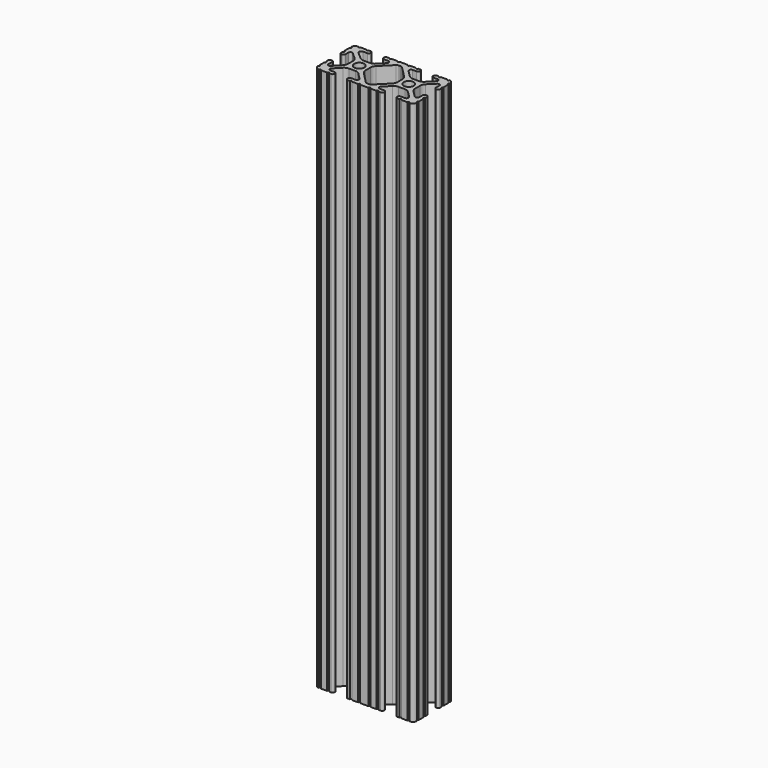
from build123d import *

# Parameters (mm, degrees)
SKETCH162_R   = 2.6035
EXTRUDE_DEPTH = 279.4


with BuildPart() as part:
    # Sketch162 → Extrude (new body)
    with BuildSketch(Plane.XY):
        with BuildLine():
            Line((8.41248, -10.4902), (6.283641, -10.4902))
            ThreePointArc((5.532577, -8.666072), (5.297292, -9.829633), (6.283641, -10.4902))
            Line((5.532577, -8.666072), (8.809985, -5.416263))
            ThreePointArc((11.045536, -4.4958), (9.836721, -4.73492), (8.809985, -5.416263))
            Line((11.045536, -4.4958), (14.354464, -4.4958))
            ThreePointArc((16.590015, -5.416263), (15.563279, -4.73492), (14.354464, -4.4958))
            Line((16.590015, -5.416263), (19.867423, -8.666072))
            ThreePointArc((19.116359, -10.4902), (20.102708, -9.829633), (19.867423, -8.666072))
            Line((19.116359, -10.4902), (16.98752, -10.4902))
            ThreePointArc((16.98752, -10.4902), (16.245751, -10.797451), (15.9385, -11.53922))
            Line((15.9385, -11.53922), (15.938501, -11.65105))
            ThreePointArc((15.938501, -11.65105), (16.245731, -12.39277), (16.98745, -12.7))
            Line((16.98745, -12.7), (18.017115, -12.7))
            ThreePointArc((19.033115, -12.7), (18.525115, -12.192), (18.017115, -12.7))
            Line((19.033115, -12.7), (22.2504, -12.7))
            ThreePointArc((23.2664, -12.699847), (22.758323, -12.192), (22.2504, -12.7))
            ThreePointArc((23.2664, -12.699847), (24.782523, -12.082523), (25.399847, -10.5664))
            ThreePointArc((25.4, -9.5504), (24.892, -10.058323), (25.399847, -10.5664))
            Line((25.4, -9.5504), (25.4, -6.333084))
            ThreePointArc((25.4, -5.317084), (24.892, -5.825084), (25.4, -6.333084))
            Line((25.4, -5.317084), (25.4, -4.23752))
            ThreePointArc((25.4, -4.23752), (25.107394, -3.531106), (24.40098, -3.2385))
            Line((24.40098, -3.2385), (24.239219, -3.2385))
            ThreePointArc((24.239219, -3.2385), (23.49745, -3.545751), (23.1902, -4.28752))
            Line((23.1902, -4.28752), (23.1902, -6.334741))
            ThreePointArc((21.434003, -7.066536), (22.556027, -7.286024), (23.1902, -6.334741))
            Line((21.434003, -7.066536), (18.147951, -3.808156))
            ThreePointArc((17.208502, -1.55362), (17.45276, -2.774838), (18.147951, -3.808156))
            Line((17.208502, -1.55362), (17.208502, 1.695179))
            ThreePointArc((18.140486, 3.94229), (17.450739, 2.911536), (17.208502, 1.695179))
            Line((18.140486, 3.94229), (21.43158, 7.227386))
            ThreePointArc((23.1902, 6.498002), (22.554449, 7.449941), (21.43158, 7.227386))
            Line((23.1902, 6.498002), (23.190199, 4.28752))
            ThreePointArc((23.190199, 4.28752), (23.49745, 3.545751), (24.23922, 3.2385))
            Line((24.23922, 3.2385), (24.350981, 3.2385))
            ThreePointArc((24.350981, 3.2385), (25.09275, 3.545751), (25.4, 4.28752))
            Line((25.4, 4.28752), (25.4, 5.317134))
            ThreePointArc((25.4, 6.333134), (24.892, 5.825134), (25.4, 5.317134))
            Line((25.4, 6.333134), (25.4, 9.5504))
            ThreePointArc((25.399847, 10.5664), (24.892, 10.058324), (25.4, 9.5504))
            ThreePointArc((25.399847, 10.5664), (24.782523, 12.082523), (23.2664, 12.699847))
            ThreePointArc((22.2504, 12.7), (22.758323, 12.192), (23.2664, 12.699847))
            Line((22.2504, 12.7), (19.03309, 12.7))
            ThreePointArc((18.01709, 12.7), (18.52509, 12.192), (19.03309, 12.7))
            Line((18.01709, 12.7), (16.98747, 12.7))
            ThreePointArc((16.98747, 12.7), (16.2457, 12.392749), (15.938449, 11.65098))
            Line((15.938449, 11.65098), (15.938449, 11.53922))
            ThreePointArc((15.938449, 11.53922), (16.2457, 10.797451), (16.987469, 10.4902))
            Line((16.987469, 10.4902), (19.116359, 10.4902))
            ThreePointArc((19.834124, 8.755125), (20.055198, 9.862578), (19.116359, 10.4902))
            Line((19.834124, 8.755125), (16.496607, 5.42369))
            ThreePointArc((14.253592, 4.4958), (15.467274, 4.736929), (16.496607, 5.42369))
            Line((14.253592, 4.4958), (11.146408, 4.4958))
            ThreePointArc((8.903392, 5.42369), (9.932726, 4.736929), (11.146408, 4.4958))
            Line((8.903392, 5.42369), (5.565875, 8.755125))
            ThreePointArc((6.283641, 10.4902), (5.344802, 9.862579), (5.565875, 8.755125))
            Line((6.283641, 10.4902), (8.412531, 10.4902))
            ThreePointArc((8.412531, 10.4902), (9.1543, 10.797451), (9.461551, 11.53922))
            Line((9.461551, 11.53922), (9.461551, 11.65098))
            ThreePointArc((9.461551, 11.65098), (9.1543, 12.392749), (8.412531, 12.7))
            Line((8.412531, 12.7), (7.382872, 12.7))
            ThreePointArc((6.366872, 12.7), (6.874872, 12.192), (7.382872, 12.7))
            Line((6.366872, 12.7), (3.149606, 12.7))
            ThreePointArc((2.133606, 12.7), (2.641606, 12.192), (3.149606, 12.7))
            Line((2.133606, 12.7), (-2.133606, 12.7))
            ThreePointArc((-3.149581, 12.7), (-2.641594, 12.192013), (-2.133606, 12.7))
            Line((-3.149581, 12.7), (-6.36691, 12.7))
            ThreePointArc((-7.38291, 12.7), (-6.87491, 12.192), (-6.36691, 12.7))
            Line((-7.38291, 12.7), (-8.412531, 12.7))
            ThreePointArc((-8.412531, 12.7), (-9.1543, 12.392749), (-9.461551, 11.65098))
            Line((-9.461551, 11.65098), (-9.461551, 11.53922))
            ThreePointArc((-9.461551, 11.53922), (-9.1543, 10.797451), (-8.412531, 10.4902))
            Line((-8.412531, 10.4902), (-6.289393, 10.4902))
            ThreePointArc((-5.480677, 8.535266), (-5.23159, 9.78305), (-6.289393, 10.4902))
            Line((-5.480677, 8.535266), (-8.597934, 5.42369))
            ThreePointArc((-10.840949, 4.4958), (-9.627267, 4.736929), (-8.597934, 5.42369))
            Line((-10.840949, 4.4958), (-14.102564, 4.4958))
            ThreePointArc((-16.187895, 5.276637), (-15.215928, 4.69741), (-14.102564, 4.4958))
            Line((-16.187895, 5.276637), (-19.868248, 8.482246))
            ThreePointArc((-19.116384, 10.4902), (-20.188436, 9.74688), (-19.868248, 8.482246))
            Line((-19.116384, 10.4902), (-16.987469, 10.4902))
            ThreePointArc((-16.987469, 10.4902), (-16.2457, 10.797451), (-15.938449, 11.53922))
            Line((-15.938449, 11.53922), (-15.938449, 11.65098))
            ThreePointArc((-15.938449, 11.65098), (-16.2457, 12.392749), (-16.987469, 12.7))
            Line((-16.987469, 12.7), (-18.017103, 12.7))
            ThreePointArc((-19.033103, 12.7), (-18.525103, 12.192), (-18.017103, 12.7))
            Line((-19.033103, 12.7), (-22.2504, 12.7))
            ThreePointArc((-23.2664, 12.699847), (-22.758323, 12.192), (-22.2504, 12.7))
            ThreePointArc((-23.2664, 12.699847), (-24.782523, 12.082523), (-25.399847, 10.5664))
            ThreePointArc((-25.4, 9.5504), (-24.892, 10.058323), (-25.399847, 10.5664))
            Line((-25.4, 9.5504), (-25.4, 6.333084))
            ThreePointArc((-25.4, 5.317084), (-24.892, 5.825084), (-25.4, 6.333084))
            Line((-25.4, 5.317084), (-25.4, 4.23752))
            ThreePointArc((-25.4, 4.23752), (-25.107394, 3.531106), (-24.40098, 3.2385))
            Line((-24.40098, 3.2385), (-24.18922, 3.2385))
            ThreePointArc((-24.18922, 3.2385), (-23.482806, 3.531106), (-23.1902, 4.23752))
            Line((-23.1902, 4.23752), (-23.1902, 6.155876))
            ThreePointArc((-21.583975, 6.886926), (-22.622327, 7.038259), (-23.1902, 6.155876))
            Line((-21.583975, 6.886926), (-18.298171, 4.024971))
            ThreePointArc((-17.208502, 1.630807), (-17.493731, 2.946045), (-18.298171, 4.024971))
            Line((-17.208502, 1.630807), (-17.208502, -1.630807))
            ThreePointArc((-18.109441, -3.846495), (-17.442348, -2.826734), (-17.208502, -1.630807))
            Line((-18.109441, -3.846495), (-21.526347, -7.35342))
            ThreePointArc((-23.1902, -6.676867), (-22.585896, -7.574939), (-21.526347, -7.35342))
            Line((-23.1902, -6.676867), (-23.1902, -4.23752))
            ThreePointArc((-23.1902, -4.23752), (-23.482806, -3.531106), (-24.18922, -3.2385))
            Line((-24.18922, -3.2385), (-24.400979, -3.2385))
            ThreePointArc((-24.400979, -3.2385), (-25.107394, -3.531106), (-25.4, -4.23752))
            Line((-25.4, -4.23752), (-25.4, -5.317084))
            ThreePointArc((-25.4, -6.333185), (-24.891949, -5.825134), (-25.4, -5.317084))
            Line((-25.4, -6.333185), (-25.4, -9.5504))
            ThreePointArc((-25.399847, -10.5664), (-24.892, -10.058323), (-25.4, -9.5504))
            ThreePointArc((-25.399847, -10.5664), (-24.782522, -12.082522), (-23.2664, -12.699847))
            ThreePointArc((-22.2504, -12.7), (-22.758323, -12.192), (-23.2664, -12.699847))
            Line((-22.2504, -12.7), (-19.033103, -12.7))
            ThreePointArc((-18.017103, -12.7), (-18.525103, -12.192), (-19.033103, -12.7))
            Line((-18.017103, -12.7), (-16.98745, -12.7))
            ThreePointArc((-16.98745, -12.7), (-16.24573, -12.39277), (-15.9385, -11.65105))
            Line((-15.9385, -11.65105), (-15.9385, -11.53922))
            ThreePointArc((-15.9385, -11.53922), (-16.245751, -10.797451), (-16.98752, -10.4902))
            Line((-16.98752, -10.4902), (-19.116384, -10.4902))
            ThreePointArc((-19.844087, -8.765172), (-20.052503, -9.869097), (-19.116384, -10.4902))
            Line((-19.844087, -8.765172), (-16.618993, -5.455112))
            ThreePointArc((-14.344933, -4.4958), (-15.578994, -4.745442), (-16.618993, -5.455112))
            Line((-14.344933, -4.4958), (-11.083318, -4.4958))
            ThreePointArc((-8.816955, -5.447239), (-9.854331, -4.743307), (-11.083318, -4.4958))
            Line((-8.816955, -5.447239), (-5.564154, -8.762653))
            ThreePointArc((-6.289393, -10.4902), (-5.352591, -9.867473), (-5.564154, -8.762653))
            Line((-6.289393, -10.4902), (-8.41248, -10.4902))
            ThreePointArc((-8.41248, -10.4902), (-9.154249, -10.797451), (-9.4615, -11.53922))
            Line((-9.4615, -11.53922), (-9.4615, -11.65105))
            ThreePointArc((-9.4615, -11.65105), (-9.154269, -12.39277), (-8.41255, -12.7))
            Line((-8.41255, -12.7), (-7.382885, -12.7))
            ThreePointArc((-6.366885, -12.7), (-6.874885, -12.192), (-7.382885, -12.7))
            Line((-6.366885, -12.7), (-3.149581, -12.7))
            ThreePointArc((-2.133581, -12.7), (-2.641581, -12.192), (-3.149581, -12.7))
            Line((-2.133581, -12.7), (2.133581, -12.7))
            ThreePointArc((3.149581, -12.7), (2.641581, -12.192), (2.133581, -12.7))
            Line((3.149581, -12.7), (6.366897, -12.7))
            ThreePointArc((7.382897, -12.7), (6.874897, -12.192), (6.366897, -12.7))
            Line((7.382897, -12.7), (8.41255, -12.7))
            ThreePointArc((8.41255, -12.7), (9.15427, -12.392769), (9.4615, -11.65105))
            Line((9.4615, -11.65105), (9.461501, -11.53922))
            ThreePointArc((9.461501, -11.53922), (9.154249, -10.797451), (8.41248, -10.4902))
        make_face()
        with Locations((12.7, 0)):
            Circle(SKETCH162_R, mode=Mode.SUBTRACT)
        with Locations((-12.7, 0)):
            Circle(SKETCH162_R, mode=Mode.SUBTRACT)
        with BuildLine():
            Line((7.259514, 3.869413), (1.545749, 9.572767))
            ThreePointArc((1.545749, 9.572767), (1.035199, 9.9134), (0.433213, 10.033))
            Line((0.433213, 10.033), (-0.433213, 10.033))
            ThreePointArc((-0.433213, 10.033), (-1.0352, 9.9134), (-1.545749, 9.572767))
            Line((-1.545749, 9.572767), (-7.259514, 3.869413))
            ThreePointArc((-7.259514, 3.869413), (-7.949261, 2.83866), (-8.191498, 1.622303))
            Line((-8.191498, 1.622303), (-8.191498, -1.622303))
            ThreePointArc((-8.191498, -1.622303), (-7.955573, -2.823328), (-7.282861, -3.845864))
            Line((-7.282861, -3.845864), (-1.675572, -9.561086))
            ThreePointArc((-1.675572, -9.561086), (-1.161034, -9.910236), (-0.551457, -10.033))
            Line((-0.551457, -10.033), (0.3952, -10.033))
            ThreePointArc((0.3952, -10.033), (0.994773, -9.914396), (1.504033, -9.57645))
            Line((1.504033, -9.57645), (7.252049, -3.87684))
            ThreePointArc((7.252049, -3.87684), (7.94724, -2.843521), (8.191498, -1.622303))
            Line((8.191498, -1.622303), (8.191499, 1.622303))
            ThreePointArc((8.191499, 1.622303), (7.949262, 2.83866), (7.259514, 3.869413))
        make_face(mode=Mode.SUBTRACT)
    extrude(amount=EXTRUDE_DEPTH)


solid = part.part
